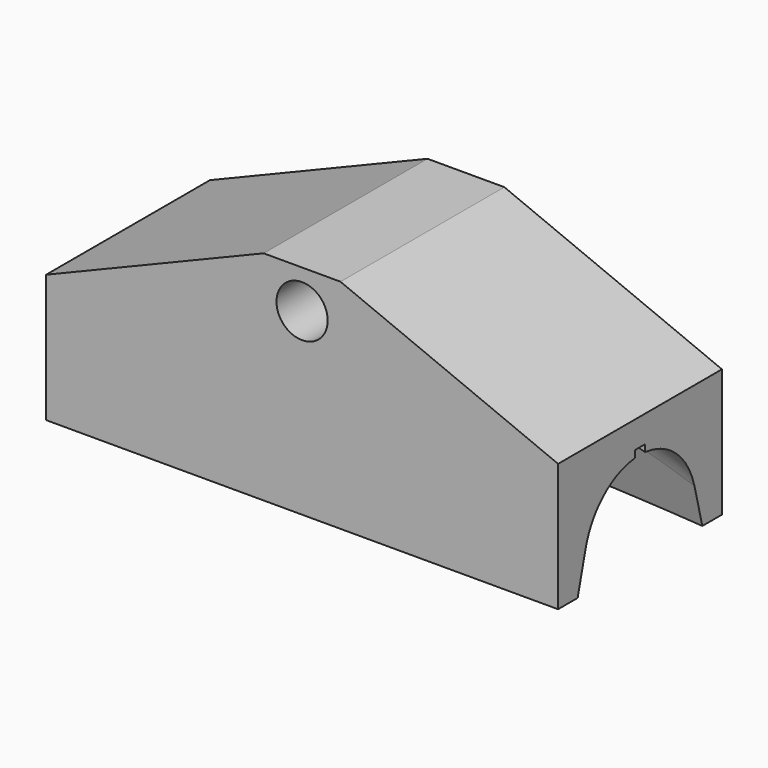
from build123d import *

# Parameters (mm, degrees)
F0_R     = 10
F1_DEPTH = 40


with BuildPart() as f1:
    # F0 (on Front) → F1 (new body, symmetric)
    with BuildSketch(Plane.XZ):
        Polygon((0, 360), (-15, 360), (-100, 325), (-100, 275), (0, 275), (100, 275), (100, 325), (15, 360), align=None)
        with Locations((0, 345)):
            Circle(F0_R, mode=Mode.SUBTRACT)
    extrude(amount=F1_DEPTH, both=True)

    # F2 (on Right) → F3 (revolve, cut)
    with BuildSketch(Plane.YZ):
        with BuildLine():
            Line((39.1880626585, 260), (26.5629602229, 307.1175237403))
            ThreePointArc((26.5629602229, 307.1175237403), (17.7163199515, 321.0328791984), (2.5, 327.3861278753))
            Line((2.5, 327.3861278753), (2.5, 330))
            Line((2.5, 330), (-2.5, 330))
            Line((-2.5, 330), (-2.5, 327.3861278753))
            ThreePointArc((-2.5, 327.3861278753), (-17.7163199515, 321.0328791984), (-26.5629602229, 307.1175237403))
            Line((-26.5629602229, 307.1175237403), (-39.1880626585, 260))
            Line((-39.1880626585, 260), (39.1880626585, 260))
        make_face()
    revolve(axis=Axis((0, 0, 0), (0, -1, 0)), mode=Mode.SUBTRACT)


solid = f1.part
